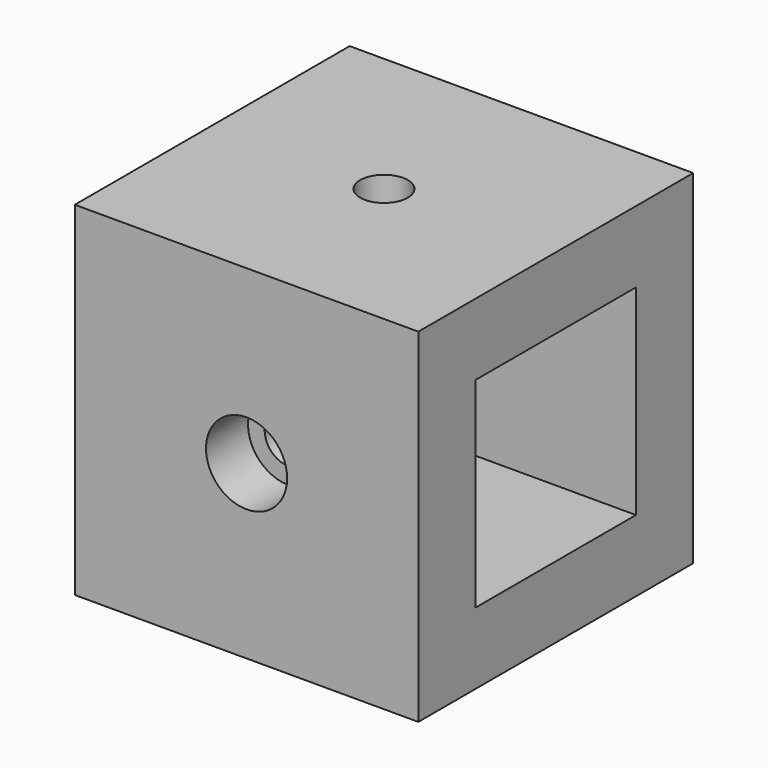
from build123d import *

# Parameters (mm, degrees)
F0_W     = 36
F0_H     = 36
F1_DEPTH = 36
F2_W     = 21
F2_H     = 21
F3_DEPTH = 60
F4_R     = 2.5
F5_DEPTH = 25
F6_R     = 2.5
F7_DEPTH = 20
F8_R     = 4.25
F9_DEPTH = 5.5


with BuildPart() as f1:
    # F0 (on Front) → F1 (new body)
    with BuildSketch(Plane.XZ):
        with Locations((18, 18)):
            Rectangle(F0_W, F0_H)
    extrude(amount=F1_DEPTH)

    # F2 (on face) → F3 (cut)
    with BuildSketch(Plane.YZ.offset(36)):
        with Locations((-18, 18)):
            Rectangle(F2_W, F2_H)
    extrude(amount=-F3_DEPTH, mode=Mode.SUBTRACT)

    # F4 (on face) → F5 (cut)
    with BuildSketch(Plane.XY.offset(36)):
        with Locations((18, -18)):
            Circle(F4_R)
    extrude(amount=-F5_DEPTH, mode=Mode.SUBTRACT)

    # F6 (on face) → F7 (cut)
    with BuildSketch(Plane.XZ.offset(36)):
        with Locations((18, 18)):
            Circle(F6_R)
    extrude(amount=-F7_DEPTH, mode=Mode.SUBTRACT)

    # F8 (on face) → F9 (cut)
    with BuildSketch(Plane.XZ.offset(36)):
        with Locations((18, 18)):
            Circle(F8_R)
    extrude(amount=-F9_DEPTH, mode=Mode.SUBTRACT)


solid = f1.part
